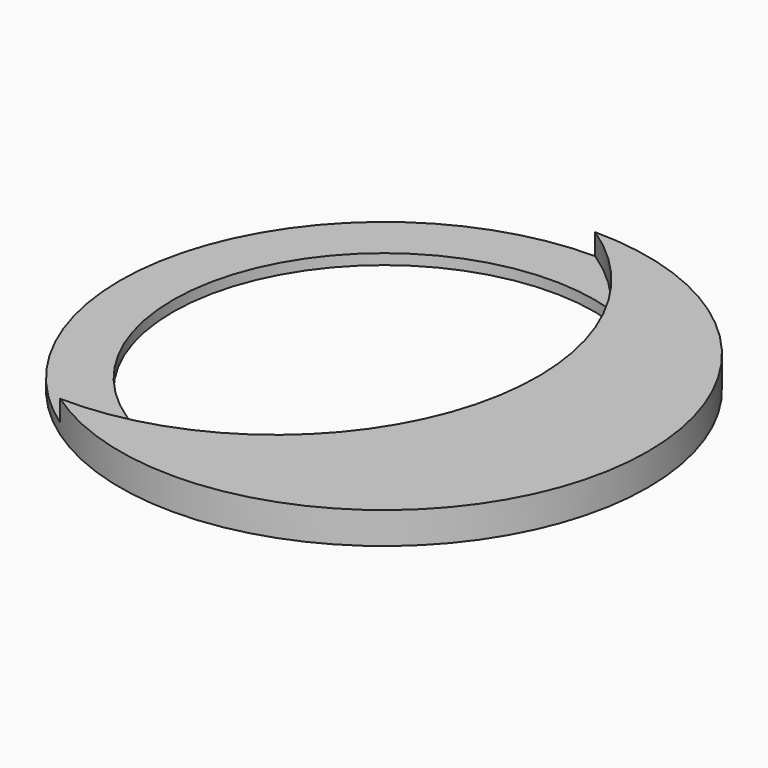
from build123d import *

# Parameters (mm, degrees)
F1_DEPTH = 1
F2_DEPTH = 3


with BuildPart() as f1:
    # F0 (on Top) → F1 (new body)
    with BuildSketch(Plane.XY):
        with BuildLine():
            ThreePointArc((6.3378331383, 18.9692348583), (3.4365963813, 22.2659266734), (0, 25))
            ThreePointArc((0, 25), (-23.8614280025, 7.4587032171), (-14.2380247846, -20.5494197055))
            ThreePointArc((-14.2380247846, -20.5494197055), (-9.8561101772, -20.2592886718), (-5.593825715, -19.201799756))
            ThreePointArc((-5.593825715, -19.201799756), (-19.089142402, 5.9669625737), (6.3378331383, 18.9692348583))
        make_face()
        with BuildLine():
            ThreePointArc((-14.2380247846, -20.5494197055), (11.5984779257, -22.1466771731), (25, 0))
            ThreePointArc((25, 0), (17.6776695297, 17.6776695297), (0, 25))
            ThreePointArc((0, 25), (3.4365963813, 22.2659266734), (6.3378331383, 18.9692348583))
            ThreePointArc((6.3378331383, 18.9692348583), (16.2289350046, 11.6885272219), (20, 0))
            ThreePointArc((20, 0), (12.002572343, -15.9980704196), (-5.593825715, -19.201799756))
            ThreePointArc((-5.593825715, -19.201799756), (-9.8561101772, -20.2592886718), (-14.2380247846, -20.5494197055))
        make_face()
        with BuildLine():
            ThreePointArc((20, 0), (16.2289350046, 11.6885272219), (6.3378331383, 18.9692348583))
            ThreePointArc((6.3378331383, 18.9692348583), (10.0200496601, -3.1321082974), (-5.593825715, -19.201799756))
            ThreePointArc((-5.593825715, -19.201799756), (12.002572343, -15.9980704196), (20, 0))
        make_face()
    extrude(amount=F1_DEPTH)

    # F0 (on Top) → F2 (join)
    with BuildSketch(Plane.XY):
        with BuildLine():
            ThreePointArc((20, 0), (16.2289350046, 11.6885272219), (6.3378331383, 18.9692348583))
            ThreePointArc((6.3378331383, 18.9692348583), (10.0200496601, -3.1321082974), (-5.593825715, -19.201799756))
            ThreePointArc((-5.593825715, -19.201799756), (12.002572343, -15.9980704196), (20, 0))
        make_face()
        with BuildLine():
            ThreePointArc((-14.2380247846, -20.5494197055), (11.5984779257, -22.1466771731), (25, 0))
            ThreePointArc((25, 0), (17.6776695297, 17.6776695297), (0, 25))
            ThreePointArc((0, 25), (3.4365963813, 22.2659266734), (6.3378331383, 18.9692348583))
            ThreePointArc((6.3378331383, 18.9692348583), (16.2289350046, 11.6885272219), (20, 0))
            ThreePointArc((20, 0), (12.002572343, -15.9980704196), (-5.593825715, -19.201799756))
            ThreePointArc((-5.593825715, -19.201799756), (-9.8561101772, -20.2592886718), (-14.2380247846, -20.5494197055))
        make_face()
    extrude(amount=F2_DEPTH)


solid = f1.part
